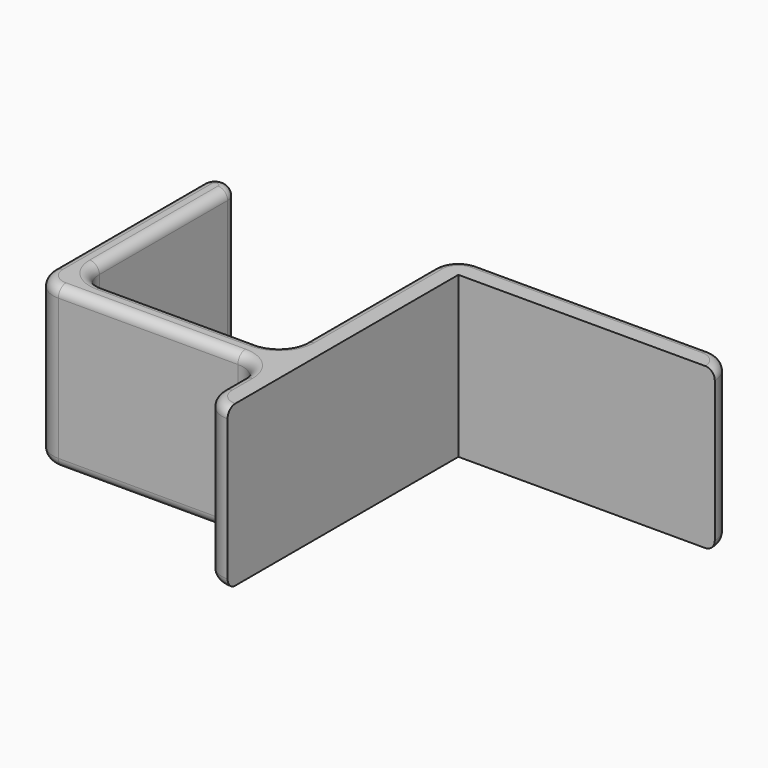
from build123d import *

# Parameters (mm, degrees)
PAD_DEPTH   = 25
FILLET_R    = 1.5
FILLET001_R = 1.5


with BuildPart() as part:
    # Sketch → Pad (new body)
    with BuildSketch(Plane.XY):
        with BuildLine():
            Line((0, 0), (0, -45))
            ThreePointArc((-4, -41), (-2.828427, -43.828427), (0, -45))
            Line((-4, -41), (-4, -37))
            ThreePointArc((-4, -37), (-5.171573, -34.171573), (-8, -33))
            Line((-8, -33), (-36, -33))
            ThreePointArc((-40, -29), (-38.828427, -31.828427), (-36, -33))
            Line((-40, -29), (-40, 0))
            ThreePointArc((-36, 0), (-38, 2), (-40, 0))
            Line((-36, 0), (-36, -25))
            ThreePointArc((-36, -25), (-34.828427, -27.828427), (-32, -29))
            Line((-32, -29), (-8, -29))
            ThreePointArc((-8, -29), (-5.171573, -27.828427), (-4, -25))
            Line((-4, -25), (-4, 0))
            ThreePointArc((0, 4), (-2.828427, 2.828427), (-4, 0))
            Line((0, 4), (36, 4))
            ThreePointArc((40, 0), (38.828427, 2.828427), (36, 4))
            Line((40, 0), (0, 0))
        make_face()
    extrude(amount=PAD_DEPTH)

    # Fillet
    fillet_edges = [part.edges().sort_by_distance(p)[0] for p in [
        (-2.828427, -43.828427, 25),
        (-4, -39, 25),
        (-5.171573, -34.171573, 25),
        (-22, -33, 25),
        (-38.828427, -31.828427, 25),
        (-40, -14.5, 25),
        (-38, 2, 25),
        (-36, -12.5, 25),
        (-34.828427, -27.828427, 25),
        (-20, -29, 25),
        (-5.171573, -27.828427, 25),
        (-4, -12.5, 25),
        (-2.828427, 2.828427, 25),
        (18, 4, 25),
        (38.828427, 2.828427, 25),
    ]]
    fillet(fillet_edges, radius=FILLET_R)

    # Fillet001
    fillet001_edges = [part.edges().sort_by_distance(p)[0] for p in [
        (38.828427, 2.828427, 0),
        (18, 4, 0),
        (-2.828427, 2.828427, 0),
        (-4, -12.5, 0),
        (-5.171573, -27.828427, 0),
        (-20, -29, 0),
        (-34.828427, -27.828427, 0),
        (-36, -12.5, 0),
        (-38, 2, 0),
        (-40, -14.5, 0),
        (-38.828427, -31.828427, 0),
        (-22, -33, 0),
        (-5.171573, -34.171573, 0),
        (-4, -39, 0),
        (-2.828427, -43.828427, 0),
    ]]
    fillet(fillet001_edges, radius=FILLET001_R)


solid = part.part
